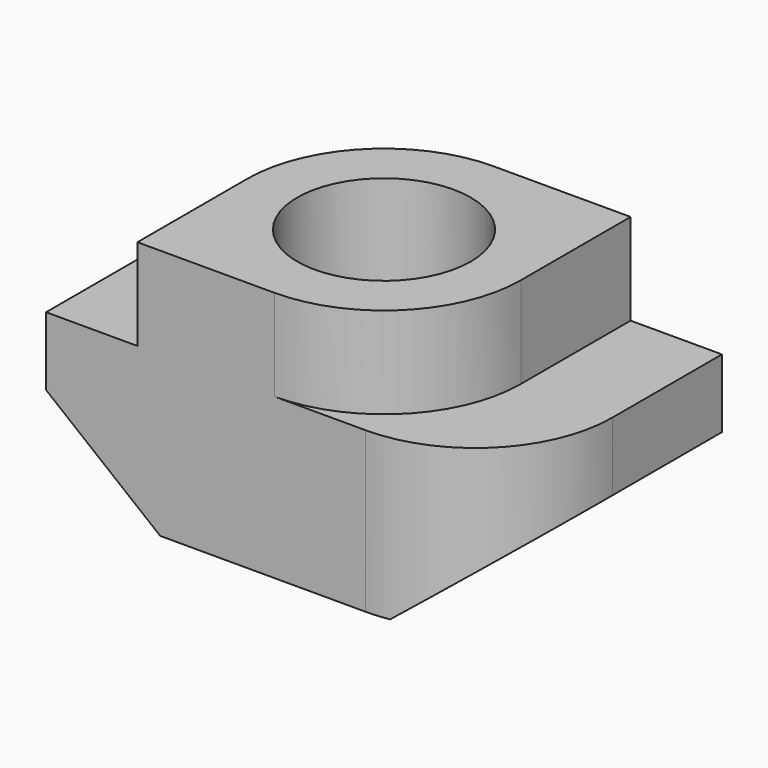
from build123d import *

# Parameters (mm, degrees)
F1_DEPTH = 3.5
F3_DEPTH = 2
F4_R     = 1.9
F5_DEPTH = 25
F7_DEPTH = 25
F9_DEPTH = 25


with BuildPart() as f1:
    # F0 (on Top) → F1 (new body)
    with BuildSketch(Plane.XY):
        with BuildLine():
            Line((-5, 0), (-5, -3))
            Line((-5, -3), (2, -3))
            ThreePointArc((2, -3), (4.12132, -2.12132), (5, 0))
            Line((5, 0), (5, 3))
            Line((5, 3), (-2, 3))
            ThreePointArc((-2, 3), (-4.12132, 2.12132), (-5, 0))
        make_face()
    extrude(amount=F1_DEPTH)

    # F2 (on face) → F3 (join)
    with BuildSketch(Plane.XY.offset(3.5)):
        with BuildLine():
            Line((3, 0), (3, 3))
            Line((3, 3), (0, 3))
            ThreePointArc((0, 3), (-2.12132, 2.12132), (-3, 0))
            Line((-3, 0), (-3, -3))
            Line((-3, -3), (0, -3))
            ThreePointArc((0, -3), (2.12132, -2.12132), (3, 0))
        make_face()
    extrude(amount=F3_DEPTH)

    # F4 (on face) → F5 (cut)
    with BuildSketch(Plane.XY.offset(5.5)):
        Circle(F4_R)
    extrude(amount=-F5_DEPTH, mode=Mode.SUBTRACT)

    # F6 (on face) → F7 (cut)
    with BuildSketch(Plane.XZ.offset(3)):
        Polygon((-2.5, 0), (-5, 2), (-5, 0), align=None)
    extrude(amount=-F7_DEPTH, mode=Mode.SUBTRACT)

    # F8 (on face) → F9 (cut)
    with BuildSketch(Plane(origin=(0, 3, 0), x_dir=(-1, 0, 0), z_dir=(0, 1, 0))):
        Polygon((-5, 0), (-2.5, 0), (-5, 2), align=None)
    extrude(amount=-F9_DEPTH, mode=Mode.SUBTRACT)


solid = f1.part
